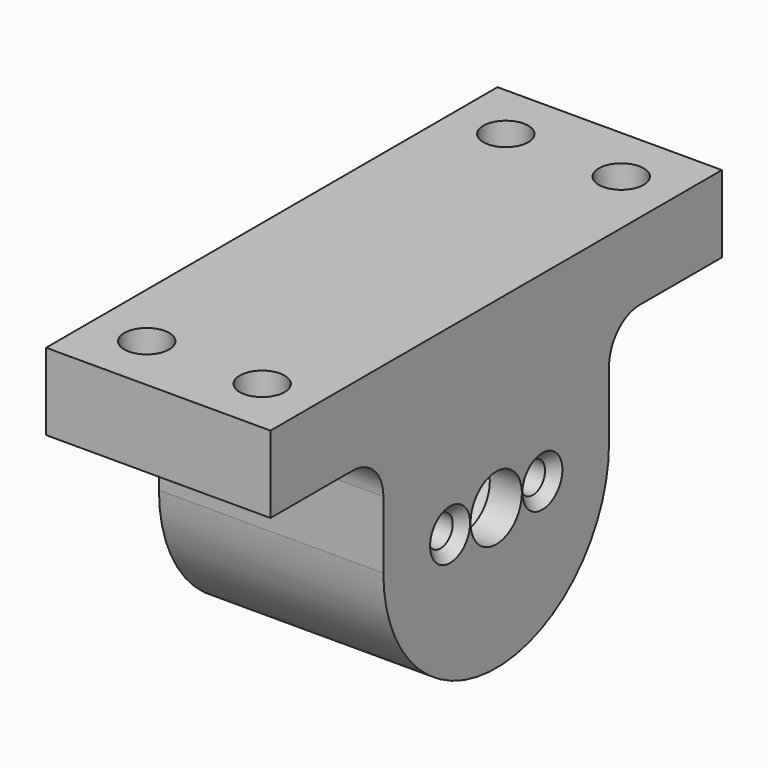
from build123d import *

# Parameters (mm, degrees)
SKETCH_R        = 1.2
SKETCH_R_2      = 2.5
PAD_DEPTH       = 8.75
SKETCH001_R     = 8.25
POCKET_DEPTH    = 15
POCKET001_DEPTH = 3
SKETCH003_R     = 1.75
POCKET002_DEPTH = 6.001
CHAMFER_SIZE    = 0.75


with BuildPart() as part:
    # Sketch → Pad (new body, symmetric)
    with BuildSketch(Plane.YZ):
        with BuildLine():
            Line((-22, 14.25), (22, 14.25))
            Line((22, 14.25), (22, 8.25))
            Line((22, 8.25), (14, 8.25))
            ThreePointArc((14, 8.25), (11.87868, 7.37132), (11, 5.25))
            Line((11, 5.25), (11, 0))
            ThreePointArc((-11, 0), (0, -11), (11, 0))
            Line((-11, 0), (-11, 5.25))
            ThreePointArc((-11, 5.25), (-11.87868, 7.37132), (-14, 8.25))
            Line((-14, 8.25), (-22, 8.25))
            Line((-22, 8.25), (-22, 14.25))
        make_face()
        with Locations((-4.5, 0)):
            Circle(SKETCH_R, mode=Mode.SUBTRACT)
        with Locations((4.5, 0)):
            Circle(SKETCH_R, mode=Mode.SUBTRACT)
        Circle(SKETCH_R_2, mode=Mode.SUBTRACT)
    extrude(amount=PAD_DEPTH, both=True)

    # Sketch001 (on Face14 of Pad) → Pocket (cut)
    with BuildSketch(Plane(origin=(-8.75, 0, 0), x_dir=(0, 1, 0), z_dir=(-1, 0, 0))):
        Circle(SKETCH001_R)
    extrude(amount=-POCKET_DEPTH, mode=Mode.SUBTRACT)

    # Sketch002 (on Face7 of Pocket) → Pocket001 (cut)
    with BuildSketch(Plane.YX.offset(-8.25)):
        Polygon((-15.825684, 7.4), (-19.174316, 7.4), (-20.848632, 4.5), (-19.174316, 1.6), (-15.825684, 1.6), (-14.151368, 4.5), align=None)
        Polygon((-14.151368, -4.5), (-15.825684, -1.6), (-19.174316, -1.6), (-20.848632, -4.5), (-19.174316, -7.4), (-15.825684, -7.4), align=None)
        Polygon((19.174316, 1.6), (20.848632, 4.5), (19.174316, 7.4), (15.825684, 7.4), (14.151368, 4.5), (15.825684, 1.6), align=None)
        Polygon((19.174316, -7.4), (20.848632, -4.5), (19.174316, -1.6), (15.825684, -1.6), (14.151368, -4.5), (15.825684, -7.4), align=None)
    extrude(amount=-POCKET001_DEPTH, mode=Mode.SUBTRACT)

    # Sketch003 (on Face7 of Pocket001) → Pocket002 (cut, through all)
    with BuildSketch(Plane.YX.offset(-8.25)):
        with Locations((-17.5, 4.5)):
            Circle(SKETCH003_R)
        with Locations((-17.5, -4.5)):
            Circle(SKETCH003_R)
        with Locations((17.5, -4.5)):
            Circle(SKETCH003_R)
        with Locations((17.5, 4.5)):
            Circle(SKETCH003_R)
    extrude(amount=-POCKET002_DEPTH, mode=Mode.SUBTRACT)

    # Chamfer
    chamfer_edges = [part.edges().sort_by_distance(p)[0] for p in [
        (8.75, 3.3, 0),
        (8.75, -5.7, 0),
    ]]
    chamfer(chamfer_edges, length=CHAMFER_SIZE)


solid = part.part
